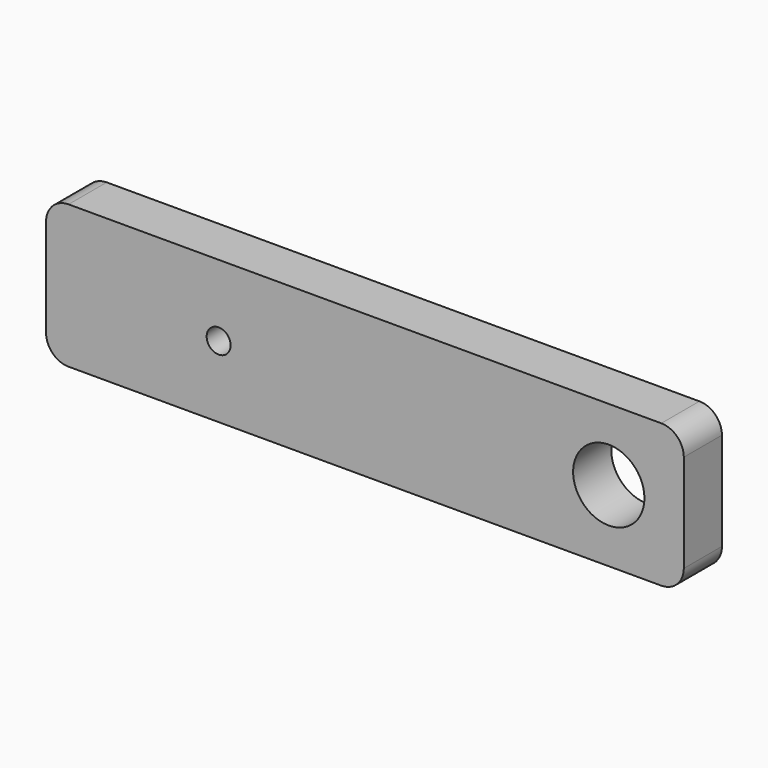
from build123d import *

# Parameters (mm, degrees)
F0_W     = 85
F0_H     = 19.05
F0_R     = 1.6
F0_R_2   = 4.75
F1_DEPTH = 6.35
F2_R     = 1.5
F3_DEPTH = 5
F4_R     = 3


with BuildPart() as f1:
    # F0 (on Front) → F1 (new body)
    with BuildSketch(Plane.XZ):
        with Locations((-42.5, 9.525)):
            Rectangle(F0_W, F0_H)
        with Locations((-62, 9.525)):
            Circle(F0_R, mode=Mode.SUBTRACT)
        with Locations((-10, 9.525)):
            Circle(F0_R_2, mode=Mode.SUBTRACT)
    extrude(amount=-F1_DEPTH)

    # F2 (on face) → F3 (cut)
    with BuildSketch(Plane(origin=(0, 0, 0), x_dir=(1, 0, 0), z_dir=(0, 0, -1))):
        with Locations((-17, -3.175)):
            Circle(F2_R)
        with Locations((-68, -3.175)):
            Circle(F2_R)
    extrude(amount=-F3_DEPTH, mode=Mode.SUBTRACT)

    # F4
    f4_edges = [f1.edges().sort_by_distance(p)[0] for p in [
        (-85, 3.175, 19.05),
        (-85, 3.175, 0),
        (0, 3.175, 0),
        (0, 3.175, 19.05),
    ]]
    fillet(f4_edges, radius=F4_R)


solid = f1.part
